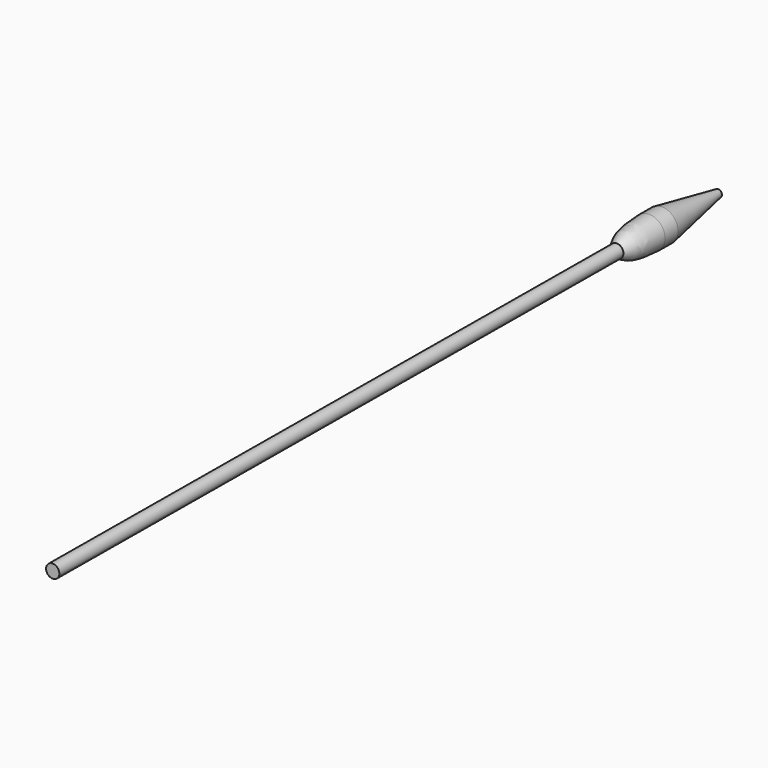
from build123d import *


with BuildPart() as f1:
    # F0 (on Top) → F1 (revolve)
    with BuildSketch(Plane.XY):
        Polygon((23.345541209, -196.3676661253), (25.0248201191, 11.0667645931), (25.1276292009, 23.7663484561), (23.1433192223, 23.7824123751), (23.0405101406, 11.0828285122), (21.3612312304, -196.3516022063), align=None)
    revolve(axis=Axis((24.1851806641, -92.6504507661, 0), (-0.0080952033, -0.9999672333, 0)))


with BuildPart() as f2:
    # F0 (on Top) → F2 (revolve)
    with BuildSketch(Plane.XY):
        with BuildLine():
            Line((23.1433192223, 23.7824123751), (25.1276292009, 23.7663484561))
            Line((25.1276292009, 23.7663484561), (25.3268217968, 48.3717921906))
            Line((25.3268217968, 48.3717921906), (24.225460343, 48.3807082276))
            Line((24.225460343, 48.3807082276), (20.3974130903, 27.7735218189))
            Line((20.3974130903, 27.7735218189), (20.3588596847, 23.0111778703))
            add(Edge.make_bspline(
                [(20.3588596847, 23.0111778703), (20.3349453083, 20.0571331209), (20.9561705421, 14.4456250959), (22.2092902976, 12.2627453925), (23.0405101406, 11.0828285122)],
                knots=[0, 0, 0, 0, 0.5952369635, 1, 1, 1, 1], degree=3))
            Line((23.0405101406, 11.0828285122), (23.1433192223, 23.7824123751))
        make_face()
    revolve(axis=Axis((25.175820958, 29.7192783919, 0), (0.0080952033, 0.9999672333, 0)))


solid = Compound([f1.part, f2.part])
